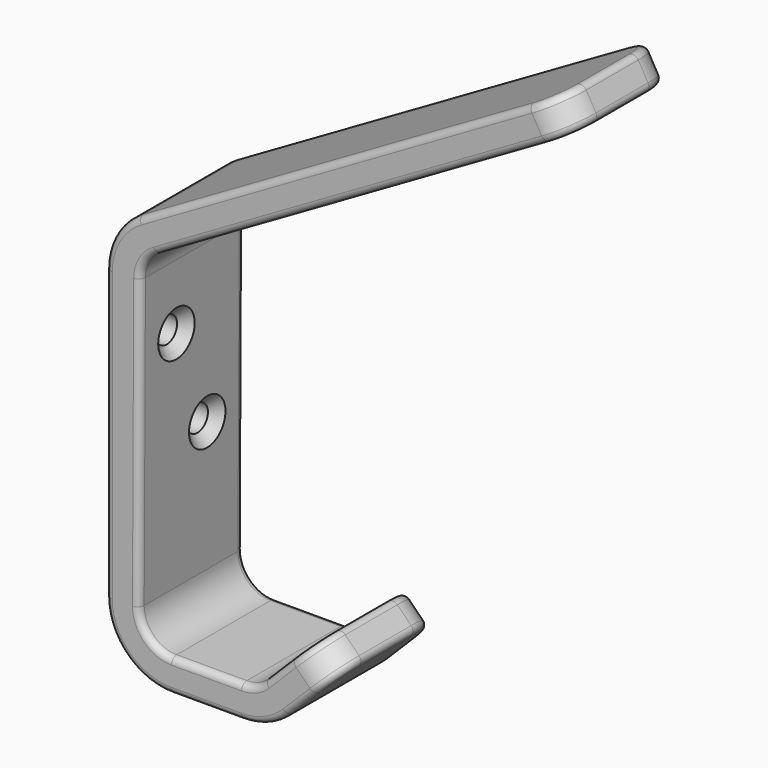
from build123d import *

# Parameters (mm, degrees)
F1_DEPTH        = 20
F2_R            = 10
F3_R            = 10
F4_R            = 5
F5_R            = 5
F6_R            = 10
F7_R            = 5
F8_R            = 5
F9_R            = 5
F10_R           = 5
F11_R           = 5
F12_R           = 1
F14_D           = 4
F14_CSINK_D     = 7
F14_CSINK_ANGLE = 90


with BuildPart() as f1:
    # F0 (on Front) → F1 (new body)
    with BuildSketch(Plane.XZ):
        Polygon((0, -10.6066017178), (10.6066017178, 0), (7.0710678119, 3.5355339059), (-2.069922974, -5.6054568799), (-19.9238533878, -5.6054568799), (-19.6924897674, 46.6841880518), (46.7820323028, 85.0632712633), (44.2820323028, 89.3933982822), (-25, 49.3933982822), (-25, -10.6066017178), align=None)
    extrude(amount=F1_DEPTH)

    # F2
    f2_edges = [f1.edges().sort_by_distance(p)[0] for p in [
        (-25, -10, -10.606602),
    ]]
    fillet(f2_edges, radius=F2_R)

    # F3
    f3_edges = [f1.edges().sort_by_distance(p)[0] for p in [
        (-25, -10, 49.393398),
    ]]
    fillet(f3_edges, radius=F3_R)

    # F4
    f4_edges = [f1.edges().sort_by_distance(p)[0] for p in [
        (-19.923853, -10, -5.605457),
    ]]
    fillet(f4_edges, radius=F4_R)

    # F5
    f5_edges = [f1.edges().sort_by_distance(p)[0] for p in [
        (-19.69249, -10, 46.684188),
    ]]
    fillet(f5_edges, radius=F5_R)

    # F6
    f6_edges = [f1.edges().sort_by_distance(p)[0] for p in [
        (0, -10, -10.606602),
    ]]
    fillet(f6_edges, radius=F6_R)

    # F7
    f7_edges = [f1.edges().sort_by_distance(p)[0] for p in [
        (-2.069923, -10, -5.605457),
    ]]
    fillet(f7_edges, radius=F7_R)

    # F8
    f8_edges = [f1.edges().sort_by_distance(p)[0] for p in [
        (8.838835, -20, 1.767767),
    ]]
    fillet(f8_edges, radius=F8_R)

    # F9
    f9_edges = [f1.edges().sort_by_distance(p)[0] for p in [
        (8.838835, 0, 1.767767),
    ]]
    fillet(f9_edges, radius=F9_R)

    # F10
    f10_edges = [f1.edges().sort_by_distance(p)[0] for p in [
        (45.532032, -20, 87.228335),
    ]]
    fillet(f10_edges, radius=F10_R)

    # F11
    f11_edges = [f1.edges().sort_by_distance(p)[0] for p in [
        (45.532032, 0, 87.228335),
    ]]
    fillet(f11_edges, radius=F11_R)

    # F12
    f12_edges = [f1.edges().sort_by_distance(p)[0] for p in [
        (1.465039, 0, -2.070495),
        (9.571068, -1.464466, -1.035534),
        (10.606602, -10, 0),
        (9.571068, -18.535534, -1.035534),
        (5, -20, -5.606602),
        (-0.315301, -20, -9.845397),
        (-9.571068, -20, -10.606602),
        (-22.071068, -20, -7.67767),
        (-25, -20, 21.506647),
        (-23.660254, -20, 48.619896),
        (9.975953, -20, 69.586774),
        (-18.445028, -20, -4.13316),
        (-9.521336, -20, -5.605457),
        (-2.227574, -20, -5.224855),
        (1.465039, -20, -2.070495),
        (6.035534, -18.535534, 2.5),
        (-19.803415, -20, 21.61443),
        (-19.029832, -20, 46.299645),
        (12.623329, -20, 65.341735),
        (45.513767, -18.535534, 84.331038),
        (46.782032, -10, 85.063271),
        (44.282032, -10, 89.393398),
        (43.013767, -18.535534, 88.661165),
        (7.071068, -10, 3.535534),
        (6.035534, -1.464466, 2.5),
    ]]
    fillet(f12_edges, radius=F12_R)

    # F14 (through all)
    with Locations(Plane(origin=(-19.8986616096, 0, 0.0880447056), x_dir=(0, 1, 0), z_dir=(0.9999902114, 0, -0.0044246113))):
        with Locations((-13, 33.72457808), (-7, 19.3286148992)):
            CounterSinkHole(F14_D / 2, F14_CSINK_D / 2, counter_sink_angle=F14_CSINK_ANGLE)


solid = f1.part
